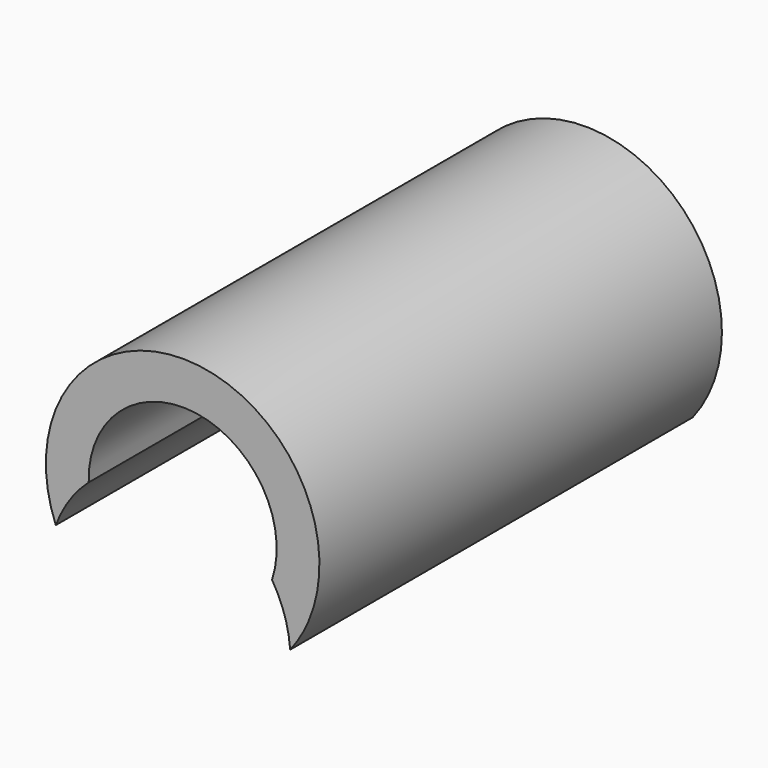
from build123d import *

# Parameters (mm, degrees)
F0_R     = 18.808676083
F1_DEPTH = 69.1824834794
F2_R     = 12.9265710322
F3_DEPTH = 129.7349091619
F5_DEPTH = 129.6051889658
F6_R     = 16.6484962408
F7_DEPTH = 87.6426827163


with BuildPart() as f1:
    # F0 (on Front) → F1 (new body)
    with BuildSketch(Plane.XZ):
        with Locations((0, 77.7600631118)):
            Circle(F0_R)
    extrude(amount=F1_DEPTH)

    # F2 (on face) → F3 (cut)
    with BuildSketch(Plane.XZ.offset(69.1824834794)):
        with Locations((0, 77.7600631118)):
            Circle(F2_R)
    extrude(amount=-F3_DEPTH, mode=Mode.SUBTRACT)

    # F4 (on face) → F5 (cut)
    with BuildSketch(Plane.XZ.offset(69.1824834794)):
        with BuildLine():
            ThreePointArc((-12.9257110231, 77.6109551043), (0, 64.8334920796), (12.9257110231, 77.6109551043))
            ThreePointArc((12.9257110231, 77.6109551043), (0, 83.0086830497), (-12.9257110231, 77.6109551043))
        make_face()
        with BuildLine():
            ThreePointArc((-17.3048152374, 70.3905539291), (-2.8124051236, 46.8772133943), (18.1751909702, 64.8334920796))
            ThreePointArc((18.1751909702, 64.8334920796), (17.9562786853, 67.6458972031), (17.3048152374, 70.3905539291))
            ThreePointArc((17.3048152374, 70.3905539291), (0, 58.9513870288), (-17.3048152374, 70.3905539291))
        make_face()
    extrude(amount=-F5_DEPTH, mode=Mode.SUBTRACT)

    # F6 (on face) → F7 (cut)
    with BuildSketch(Plane.XZ.offset(69.1824834794)):
        with Locations((-1.8266138414, 64.963199413)):
            Circle(F6_R)
    extrude(amount=-F7_DEPTH, mode=Mode.SUBTRACT)


solid = f1.part
